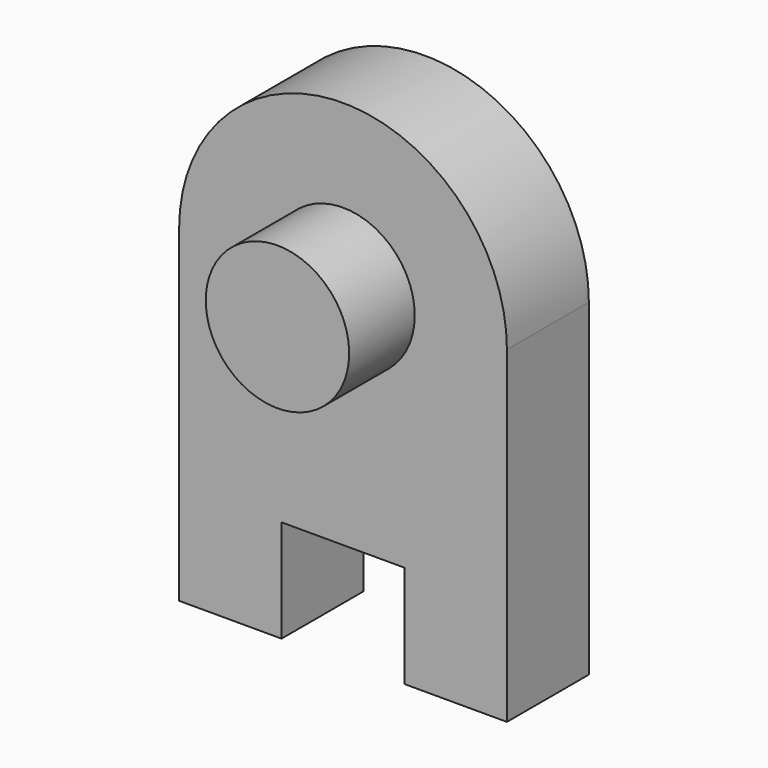
from build123d import *

# Parameters (mm, degrees)
F0_W     = 2032
F0_H     = 2032
F1_DEPTH = 635
F2_W     = 762
F2_H     = 635
F3_DEPTH = 635.001
F5_DEPTH = 635
F6_R     = 444.5
F7_DEPTH = 508


with BuildPart() as f1:
    # F0 (on Front) → F1 (new body)
    with BuildSketch(Plane.XZ):
        Rectangle(F0_W, F0_H)
    extrude(amount=F1_DEPTH)

    # F2 (on face) → F3 (cut, through all)
    with BuildSketch(Plane.XZ.offset(635)):
        with Locations((0, -698.5)):
            Rectangle(F2_W, F2_H)
    extrude(amount=-F3_DEPTH, mode=Mode.SUBTRACT)

    # F4 (on face) → F5 (join)
    with BuildSketch(Plane.XZ.offset(635)):
        with BuildLine():
            Line((-1016, 1016), (1016, 1016))
            ThreePointArc((1016, 1016), (0, 2032), (-1016, 1016))
        make_face()
    extrude(amount=-F5_DEPTH)

    # F6 (on face) → F7 (join)
    with BuildSketch(Plane.XZ.offset(635)):
        with Locations((0, 1016)):
            Circle(F6_R)
    extrude(amount=F7_DEPTH)


solid = f1.part
